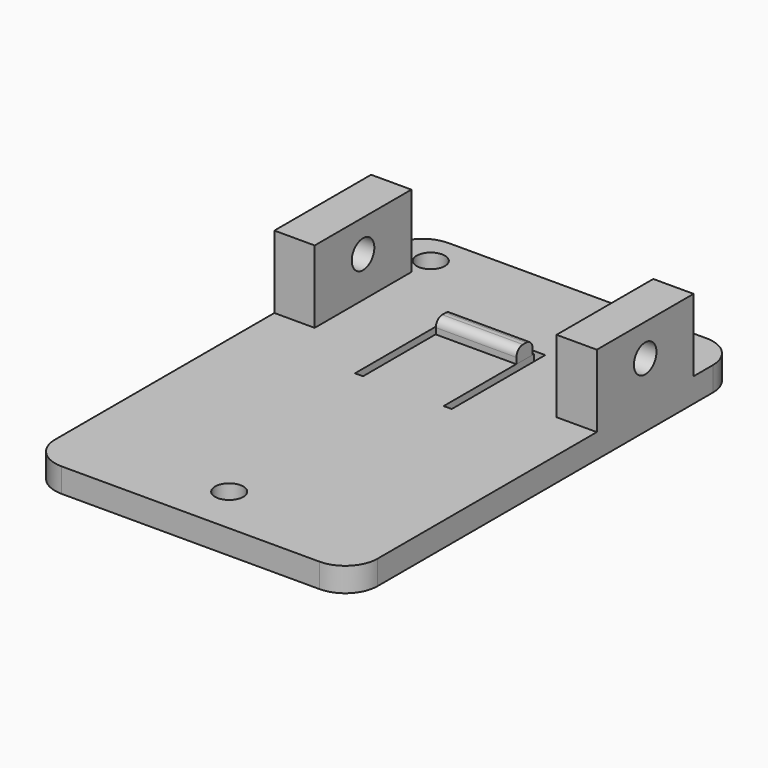
from build123d import *

# Parameters (mm, degrees)
SKETCH_R        = 1.75
PAD_DEPTH       = 3
SKETCH001_W     = 10.76
SKETCH001_H     = 13.97
POCKET_DEPTH    = 1.5
SKETCH002_W     = 5
SKETCH002_H     = 15
PAD001_DEPTH    = 9
SKETCH003_R     = 1.75
POCKET001_DEPTH = 50
SKETCH004_W     = 10
SKETCH004_H     = 2.5
PAD002_DEPTH    = 1.75
FILLET_R        = 1


with BuildPart() as part:
    # Sketch → Pad (new body)
    with BuildSketch(Plane.XY):
        with BuildLine():
            Line((-20, -26), (-20, 26))
            ThreePointArc((-20, 26), (-18.828427, 28.828427), (-16, 30))
            Line((-16, 30), (16, 30))
            ThreePointArc((16, 30), (18.828427, 28.828427), (20, 26))
            Line((20, 26), (20, -26))
            ThreePointArc((20, -26), (18.828427, -28.828427), (16, -30))
            Line((16, -30), (-16, -30))
            ThreePointArc((-16, -30), (-18.828427, -28.828427), (-20, -26))
        make_face()
        Polygon((6, 3), (5, 3), (5, 17), (-5, 17), (-5, 3), (-6, 3), (-6, 17.5), (6, 17.5), align=None, mode=Mode.SUBTRACT)
        with Locations((-15, 26)):
            Circle(SKETCH_R, mode=Mode.SUBTRACT)
        with Locations((15, 26)):
            Circle(SKETCH_R, mode=Mode.SUBTRACT)
        with Locations((0, -24)):
            Circle(SKETCH_R, mode=Mode.SUBTRACT)
    extrude(amount=PAD_DEPTH)

    # Sketch001 → Pocket (cut)
    with BuildSketch(Plane.XY):
        with Locations((0.05, 12.985)):
            Rectangle(SKETCH001_W, SKETCH001_H)
    extrude(amount=POCKET_DEPTH, mode=Mode.SUBTRACT)

    # Sketch002 → Pad001 (join)
    with BuildSketch(Plane.XY.offset(3)):
        with Locations((17.5, 15.5)):
            Rectangle(SKETCH002_W, SKETCH002_H)
        with Locations((-17.5, 15.5)):
            Rectangle(SKETCH002_W, SKETCH002_H)
    extrude(amount=PAD001_DEPTH)

    # Sketch003 → Pocket001 (cut)
    with BuildSketch(Plane.YZ.offset(20)):
        with Locations((15.5, 8)):
            Circle(SKETCH003_R)
    extrude(amount=-POCKET001_DEPTH, mode=Mode.SUBTRACT)

    # Sketch004 → Pad002 (join)
    with BuildSketch(Plane.XY.offset(3)):
        with Locations((0.024575, 15.5)):
            Rectangle(SKETCH004_W, SKETCH004_H)
    extrude(amount=PAD002_DEPTH)

    # Fillet
    fillet_edges = [part.edges().sort_by_distance(p)[0] for p in [
        (0.024575, 14.25, 4.75),
        (0.024575, 16.75, 4.75),
    ]]
    fillet(fillet_edges, radius=FILLET_R)


solid = part.part
